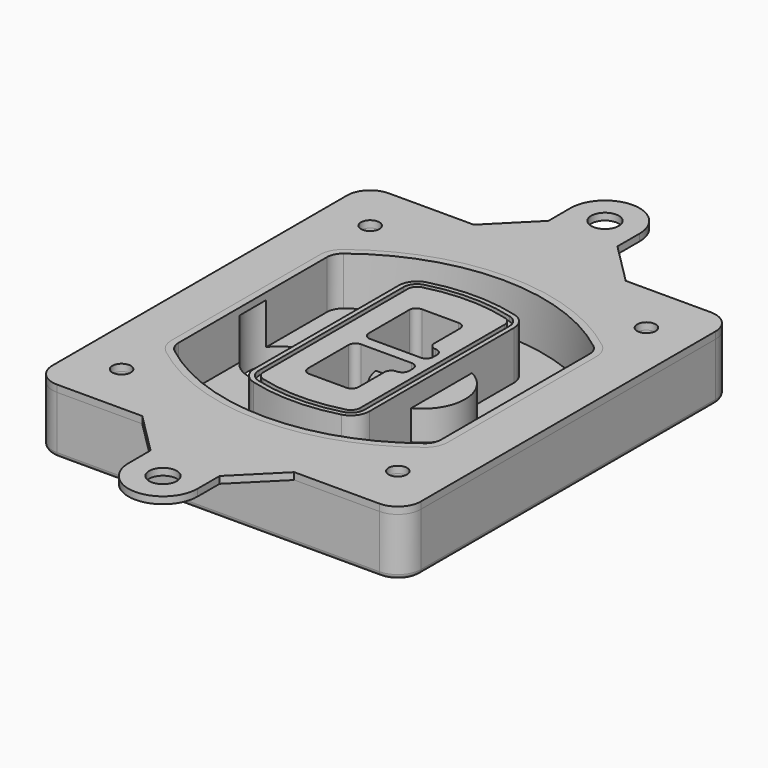
from build123d import *

# Parameters (mm, degrees)
F0_R      = 4
F1_DEPTH  = 25
F2_DEPTH  = 3
F3_DEPTH  = 18
F5_DEPTH  = 21
F6_DEPTH  = 2
F8_DEPTH  = 20
F9_DEPTH  = 16
F10_DEPTH = 25
F7_R      = 6
F7_R_2    = 4
F11_DEPTH = 6
F12_R     = 2
F13_R     = 4
F13_R_2   = 6
F14_DEPTH = 3


with BuildPart() as f1:
    # F0 (on Top) → F1 (new body)
    with BuildSketch(Plane.XY):
        with BuildLine():
            ThreePointArc((-80, -80), (-77.0710678119, -87.0710678119), (-70, -90))
            Line((-70, -90), (70, -90))
            ThreePointArc((70, -90), (77.0710678119, -87.0710678119), (80, -80))
            Line((80, -80), (80, 80))
            ThreePointArc((80, 80), (77.0710678119, 87.0710678119), (70, 90))
            Line((70, 90), (-70, 90))
            ThreePointArc((-70, 90), (-77.0710678119, 87.0710678119), (-80, 80))
            Line((-80, 80), (-80, -80))
        make_face()
        with Locations((-60, -67.5)):
            Circle(F0_R, mode=Mode.SUBTRACT)
        with Locations((60, -67.5)):
            Circle(F0_R, mode=Mode.SUBTRACT)
        with BuildLine():
            ThreePointArc((-64, 40.2934422872), (-62.5820384798, 46.4328484224), (-58.6153846154, 51.3286200352))
            ThreePointArc((-58.6153846154, 51.3286200352), (0, 71.5), (58.6153846154, 51.3286200352))
            ThreePointArc((58.6153846154, 51.3286200352), (62.5820384798, 46.4328484224), (64, 40.2934422872))
            Line((64, 40.2934422872), (64, -40.2934422872))
            ThreePointArc((64, -40.2934422872), (62.5820384798, -46.4328484224), (58.6153846154, -51.3286200352))
            ThreePointArc((58.6153846154, -51.3286200352), (0, -71.5), (-58.6153846154, -51.3286200352))
            ThreePointArc((-58.6153846154, -51.3286200352), (-62.5820384798, -46.4328484224), (-64, -40.2934422872))
            Line((-64, -40.2934422872), (-64, 40.2934422872))
        make_face(mode=Mode.SUBTRACT)
        with Locations((-60, 67.5)):
            Circle(F0_R, mode=Mode.SUBTRACT)
        with Locations((60, 67.5)):
            Circle(F0_R, mode=Mode.SUBTRACT)
        with BuildLine():
            ThreePointArc((58.6153846154, 51.3286200352), (0, 71.5), (-58.6153846154, 51.3286200352))
            ThreePointArc((-58.6153846154, 51.3286200352), (-62.5820384798, 46.4328484224), (-64, 40.2934422872))
            Line((-64, 40.2934422872), (-64, -40.2934422872))
            ThreePointArc((-64, -40.2934422872), (-62.5820384798, -46.4328484224), (-58.6153846154, -51.3286200352))
            ThreePointArc((-58.6153846154, -51.3286200352), (0, -71.5), (58.6153846154, -51.3286200352))
            ThreePointArc((58.6153846154, -51.3286200352), (62.5820384798, -46.4328484224), (64, -40.2934422872))
            Line((64, -40.2934422872), (64, 40.2934422872))
            ThreePointArc((64, 40.2934422872), (62.5820384798, 46.4328484224), (58.6153846154, 51.3286200352))
        make_face()
        with BuildLine():
            Line((-60, -40.2934422872), (-60, 40.2934422872))
            ThreePointArc((-60, 40.2934422872), (-58.9871703427, 44.6787323838), (-56.1538461538, 48.1757121072))
            ThreePointArc((-56.1538461538, 48.1757121072), (0, 67.5), (56.1538461538, 48.1757121072))
            ThreePointArc((56.1538461538, 48.1757121072), (58.9871703427, 44.6787323838), (60, 40.2934422872))
            Line((60, 40.2934422872), (60, -40.2934422872))
            ThreePointArc((60, -40.2934422872), (58.9871703427, -44.6787323838), (56.1538461538, -48.1757121072))
            ThreePointArc((56.1538461538, -48.1757121072), (0, -67.5), (-56.1538461538, -48.1757121072))
            ThreePointArc((-56.1538461538, -48.1757121072), (-58.9871703427, -44.6787323838), (-60, -40.2934422872))
        make_face(mode=Mode.SUBTRACT)
        with BuildLine():
            ThreePointArc((-56.1538461538, 48.1757121072), (-58.9871703427, 44.6787323838), (-60, 40.2934422872))
            Line((-60, 40.2934422872), (-60, -40.2934422872))
            ThreePointArc((-60, -40.2934422872), (-58.9871703427, -44.6787323838), (-56.1538461538, -48.1757121072))
            ThreePointArc((-56.1538461538, -48.1757121072), (0, -67.5), (56.1538461538, -48.1757121072))
            ThreePointArc((56.1538461538, -48.1757121072), (58.9871703427, -44.6787323838), (60, -40.2934422872))
            Line((60, -40.2934422872), (60, 40.2934422872))
            ThreePointArc((60, 40.2934422872), (58.9871703427, 44.6787323838), (56.1538461538, 48.1757121072))
            ThreePointArc((56.1538461538, 48.1757121072), (0, 67.5), (-56.1538461538, 48.1757121072))
        make_face()
        with BuildLine():
            ThreePointArc((54.3076923077, 45.8110311612), (56.2910192399, 43.3631453548), (57, 40.2934422872))
            Line((57, 40.2934422872), (57, -40.2934422872))
            ThreePointArc((57, -40.2934422872), (56.2910192399, -43.3631453548), (54.3076923077, -45.8110311612))
            ThreePointArc((54.3076923077, -45.8110311612), (0, -64.5), (-54.3076923077, -45.8110311612))
            ThreePointArc((-54.3076923077, -45.8110311612), (-56.2910192399, -43.3631453548), (-57, -40.2934422872))
            Line((-57, -40.2934422872), (-57, 40.2934422872))
            ThreePointArc((-57, 40.2934422872), (-56.2910192399, 43.3631453548), (-54.3076923077, 45.8110311612))
            ThreePointArc((-54.3076923077, 45.8110311612), (0, 64.5), (54.3076923077, 45.8110311612))
        make_face(mode=Mode.SUBTRACT)
        with BuildLine():
            Line((57, -40.2934422872), (57, 40.2934422872))
            ThreePointArc((57, 40.2934422872), (56.2910192399, 43.3631453548), (54.3076923077, 45.8110311612))
            ThreePointArc((54.3076923077, 45.8110311612), (0, 64.5), (-54.3076923077, 45.8110311612))
            ThreePointArc((-54.3076923077, 45.8110311612), (-56.2910192399, 43.3631453548), (-57, 40.2934422872))
            Line((-57, 40.2934422872), (-57, -40.2934422872))
            ThreePointArc((-57, -40.2934422872), (-56.2910192399, -43.3631453548), (-54.3076923077, -45.8110311612))
            ThreePointArc((-54.3076923077, -45.8110311612), (0, -64.5), (54.3076923077, -45.8110311612))
            ThreePointArc((54.3076923077, -45.8110311612), (56.2910192399, -43.3631453548), (57, -40.2934422872))
        make_face()
    extrude(amount=-F1_DEPTH)

    # F0 (on Top) → F2 (join)
    with BuildSketch(Plane.XY):
        with BuildLine():
            ThreePointArc((-56.1538461538, 48.1757121072), (-58.9871703427, 44.6787323838), (-60, 40.2934422872))
            Line((-60, 40.2934422872), (-60, -40.2934422872))
            ThreePointArc((-60, -40.2934422872), (-58.9871703427, -44.6787323838), (-56.1538461538, -48.1757121072))
            ThreePointArc((-56.1538461538, -48.1757121072), (0, -67.5), (56.1538461538, -48.1757121072))
            ThreePointArc((56.1538461538, -48.1757121072), (58.9871703427, -44.6787323838), (60, -40.2934422872))
            Line((60, -40.2934422872), (60, 40.2934422872))
            ThreePointArc((60, 40.2934422872), (58.9871703427, 44.6787323838), (56.1538461538, 48.1757121072))
            ThreePointArc((56.1538461538, 48.1757121072), (0, 67.5), (-56.1538461538, 48.1757121072))
        make_face()
        with BuildLine():
            ThreePointArc((54.3076923077, 45.8110311612), (56.2910192399, 43.3631453548), (57, 40.2934422872))
            Line((57, 40.2934422872), (57, -40.2934422872))
            ThreePointArc((57, -40.2934422872), (56.2910192399, -43.3631453548), (54.3076923077, -45.8110311612))
            ThreePointArc((54.3076923077, -45.8110311612), (0, -64.5), (-54.3076923077, -45.8110311612))
            ThreePointArc((-54.3076923077, -45.8110311612), (-56.2910192399, -43.3631453548), (-57, -40.2934422872))
            Line((-57, -40.2934422872), (-57, 40.2934422872))
            ThreePointArc((-57, 40.2934422872), (-56.2910192399, 43.3631453548), (-54.3076923077, 45.8110311612))
            ThreePointArc((-54.3076923077, 45.8110311612), (0, 64.5), (54.3076923077, 45.8110311612))
        make_face(mode=Mode.SUBTRACT)
    extrude(amount=F2_DEPTH)

    # F0 (on Top) → F3 (cut)
    with BuildSketch(Plane.XY):
        with BuildLine():
            Line((57, -40.2934422872), (57, 40.2934422872))
            ThreePointArc((57, 40.2934422872), (56.2910192399, 43.3631453548), (54.3076923077, 45.8110311612))
            ThreePointArc((54.3076923077, 45.8110311612), (0, 64.5), (-54.3076923077, 45.8110311612))
            ThreePointArc((-54.3076923077, 45.8110311612), (-56.2910192399, 43.3631453548), (-57, 40.2934422872))
            Line((-57, 40.2934422872), (-57, -40.2934422872))
            ThreePointArc((-57, -40.2934422872), (-56.2910192399, -43.3631453548), (-54.3076923077, -45.8110311612))
            ThreePointArc((-54.3076923077, -45.8110311612), (0, -64.5), (54.3076923077, -45.8110311612))
            ThreePointArc((54.3076923077, -45.8110311612), (56.2910192399, -43.3631453548), (57, -40.2934422872))
        make_face()
    extrude(amount=-F3_DEPTH, mode=Mode.SUBTRACT)

    # F4 (on face) → F5 (join, through all)
    with BuildSketch(Plane.XY.offset(3)):
        with BuildLine():
            ThreePointArc((-25, -39.2465276821), (-23.3511545998, -44.1109737193), (-19.0842911877, -46.9702398883))
            ThreePointArc((-19.0842911877, -46.9702398883), (0, -49.5), (19.0842911877, -46.9702398883))
            ThreePointArc((19.0842911877, -46.9702398883), (23.3511545998, -44.1109737193), (25, -39.2465276821))
            Line((25, -39.2465276821), (25, 39.2465276821))
            ThreePointArc((25, 39.2465276821), (23.3511545998, 44.1109737193), (19.0842911877, 46.9702398883))
            ThreePointArc((19.0842911877, 46.9702398883), (0, 49.5), (-19.0842911877, 46.9702398883))
            ThreePointArc((-19.0842911877, 46.9702398883), (-23.3511545998, 44.1109737193), (-25, 39.2465276821))
            Line((-25, 39.2465276821), (-25, -39.2465276821))
        make_face()
        with BuildLine():
            ThreePointArc((18.5632183908, 45.0393118368), (21.7633659499, 42.89486221), (23, 39.2465276821))
            Line((23, 39.2465276821), (23, -39.2465276821))
            ThreePointArc((23, -39.2465276821), (21.7633659499, -42.89486221), (18.5632183908, -45.0393118368))
            ThreePointArc((18.5632183908, -45.0393118368), (0, -47.5), (-18.5632183908, -45.0393118368))
            ThreePointArc((-18.5632183908, -45.0393118368), (-21.7633659499, -42.89486221), (-23, -39.2465276821))
            Line((-23, -39.2465276821), (-23, 39.2465276821))
            ThreePointArc((-23, 39.2465276821), (-21.7633659499, 42.89486221), (-18.5632183908, 45.0393118368))
            ThreePointArc((-18.5632183908, 45.0393118368), (0, 47.5), (18.5632183908, 45.0393118368))
        make_face(mode=Mode.SUBTRACT)
        with BuildLine():
            Line((23, -39.2465276821), (23, 39.2465276821))
            ThreePointArc((23, 39.2465276821), (21.7633659499, 42.89486221), (18.5632183908, 45.0393118368))
            ThreePointArc((18.5632183908, 45.0393118368), (0, 47.5), (-18.5632183908, 45.0393118368))
            ThreePointArc((-18.5632183908, 45.0393118368), (-21.7633659499, 42.89486221), (-23, 39.2465276821))
            Line((-23, 39.2465276821), (-23, -39.2465276821))
            ThreePointArc((-23, -39.2465276821), (-21.7633659499, -42.89486221), (-18.5632183908, -45.0393118368))
            ThreePointArc((-18.5632183908, -45.0393118368), (0, -47.5), (18.5632183908, -45.0393118368))
            ThreePointArc((18.5632183908, -45.0393118368), (21.7633659499, -42.89486221), (23, -39.2465276821))
        make_face()
        with BuildLine():
            ThreePointArc((18.0421455939, 43.1083837852), (20.1755772999, 41.6787507007), (21, 39.2465276821))
            Line((21, 39.2465276821), (21, -39.2465276821))
            ThreePointArc((21, -39.2465276821), (20.1755772999, -41.6787507007), (18.0421455939, -43.1083837852))
            ThreePointArc((18.0421455939, -43.1083837852), (0, -45.5), (-18.0421455939, -43.1083837852))
            ThreePointArc((-18.0421455939, -43.1083837852), (-20.1755772999, -41.6787507007), (-21, -39.2465276821))
            Line((-21, -39.2465276821), (-21, 39.2465276821))
            ThreePointArc((-21, 39.2465276821), (-20.1755772999, 41.6787507007), (-18.0421455939, 43.1083837852))
            ThreePointArc((-18.0421455939, 43.1083837852), (0, 45.5), (18.0421455939, 43.1083837852))
        make_face(mode=Mode.SUBTRACT)
        with BuildLine():
            Line((21, -39.2465276821), (21, 39.2465276821))
            ThreePointArc((21, 39.2465276821), (20.1755772999, 41.6787507007), (18.0421455939, 43.1083837852))
            ThreePointArc((18.0421455939, 43.1083837852), (0, 45.5), (-18.0421455939, 43.1083837852))
            ThreePointArc((-18.0421455939, 43.1083837852), (-20.1755772999, 41.6787507007), (-21, 39.2465276821))
            Line((-21, 39.2465276821), (-21, -39.2465276821))
            ThreePointArc((-21, -39.2465276821), (-20.1755772999, -41.6787507007), (-18.0421455939, -43.1083837852))
            ThreePointArc((-18.0421455939, -43.1083837852), (0, -45.5), (18.0421455939, -43.1083837852))
            ThreePointArc((18.0421455939, -43.1083837852), (20.1755772999, -41.6787507007), (21, -39.2465276821))
        make_face()
        with BuildLine():
            Line((-8, -2.5), (14, -2.5))
            ThreePointArc((14, -2.5), (16.1213203436, -3.3786796564), (17, -5.5))
            Line((17, -5.5), (17, -7.5))
            ThreePointArc((17, -7.5), (16.1213203436, -9.6213203436), (14, -10.5))
            ThreePointArc((14, -10.5), (11.8786796564, -11.3786796564), (11, -13.5))
            Line((11, -13.5), (11, -27.5))
            ThreePointArc((11, -27.5), (10.1213203436, -29.6213203436), (8, -30.5))
            Line((8, -30.5), (-8, -30.5))
            ThreePointArc((-8, -30.5), (-10.1213203436, -29.6213203436), (-11, -27.5))
            Line((-11, -27.5), (-11, -5.5))
            ThreePointArc((-11, -5.5), (-10.1213203436, -3.3786796564), (-8, -2.5))
        make_face(mode=Mode.SUBTRACT)
        with BuildLine():
            ThreePointArc((-8, 2.5), (-10.1213203436, 3.3786796564), (-11, 5.5))
            Line((-11, 5.5), (-11, 27.5))
            ThreePointArc((-11, 27.5), (-10.1213203436, 29.6213203436), (-8, 30.5))
            Line((-8, 30.5), (8, 30.5))
            ThreePointArc((8, 30.5), (10.1213203436, 29.6213203436), (11, 27.5))
            Line((11, 27.5), (11, 13.5))
            ThreePointArc((11, 13.5), (11.8786796564, 11.3786796564), (14, 10.5))
            ThreePointArc((14, 10.5), (16.1213203436, 9.6213203436), (17, 7.5))
            Line((17, 7.5), (17, 5.5))
            ThreePointArc((17, 5.5), (16.1213203436, 3.3786796564), (14, 2.5))
            Line((14, 2.5), (-8, 2.5))
        make_face(mode=Mode.SUBTRACT)
    extrude(amount=-F5_DEPTH)

    # F4 (on face) → F6 (cut)
    with BuildSketch(Plane.XY.offset(3)):
        with BuildLine():
            Line((23, -39.2465276821), (23, 39.2465276821))
            ThreePointArc((23, 39.2465276821), (21.7633659499, 42.89486221), (18.5632183908, 45.0393118368))
            ThreePointArc((18.5632183908, 45.0393118368), (0, 47.5), (-18.5632183908, 45.0393118368))
            ThreePointArc((-18.5632183908, 45.0393118368), (-21.7633659499, 42.89486221), (-23, 39.2465276821))
            Line((-23, 39.2465276821), (-23, -39.2465276821))
            ThreePointArc((-23, -39.2465276821), (-21.7633659499, -42.89486221), (-18.5632183908, -45.0393118368))
            ThreePointArc((-18.5632183908, -45.0393118368), (0, -47.5), (18.5632183908, -45.0393118368))
            ThreePointArc((18.5632183908, -45.0393118368), (21.7633659499, -42.89486221), (23, -39.2465276821))
        make_face()
        with BuildLine():
            ThreePointArc((18.0421455939, 43.1083837852), (20.1755772999, 41.6787507007), (21, 39.2465276821))
            Line((21, 39.2465276821), (21, -39.2465276821))
            ThreePointArc((21, -39.2465276821), (20.1755772999, -41.6787507007), (18.0421455939, -43.1083837852))
            ThreePointArc((18.0421455939, -43.1083837852), (0, -45.5), (-18.0421455939, -43.1083837852))
            ThreePointArc((-18.0421455939, -43.1083837852), (-20.1755772999, -41.6787507007), (-21, -39.2465276821))
            Line((-21, -39.2465276821), (-21, 39.2465276821))
            ThreePointArc((-21, 39.2465276821), (-20.1755772999, 41.6787507007), (-18.0421455939, 43.1083837852))
            ThreePointArc((-18.0421455939, 43.1083837852), (0, 45.5), (18.0421455939, 43.1083837852))
        make_face(mode=Mode.SUBTRACT)
    extrude(amount=-F6_DEPTH, mode=Mode.SUBTRACT)

    # F7 (on face) → F8 (join)
    with BuildSketch(Plane(origin=(0, 0, -25), x_dir=(1, 0, 0), z_dir=(0, 0, -1))):
        with BuildLine():
            ThreePointArc((3.28842436, 0), (16.7567035675, 13.4682792075), (30.224982775, 0))
            Line((30.224982775, 0), (35.224982775, 0))
            ThreePointArc((35.224982775, 0), (16.7567035675, 18.4682792075), (-1.71157564, 0))
            Line((-1.71157564, 0), (3.28842436, 0))
        make_face()
        with BuildLine():
            Line((3.28842436, 0), (30.224982775, 0))
            ThreePointArc((30.224982775, 0), (16.7567035675, 13.4682792075), (3.28842436, 0))
        make_face()
        with BuildLine():
            ThreePointArc((3.28842436, 0), (16.7567035675, -13.4682792075), (30.224982775, 0))
            Line((30.224982775, 0), (3.28842436, 0))
        make_face()
        with BuildLine():
            Line((35.224982775, 0), (30.224982775, 0))
            ThreePointArc((30.224982775, 0), (16.7567035675, -13.4682792075), (3.28842436, 0))
            Line((3.28842436, 0), (-1.71157564, 0))
            ThreePointArc((-1.71157564, 0), (16.7567035675, -18.4682792075), (35.224982775, 0))
        make_face()
    extrude(amount=-F8_DEPTH)

    # F7 (on face) → F9 (cut)
    with BuildSketch(Plane(origin=(0, 0, -25), x_dir=(1, 0, 0), z_dir=(0, 0, -1))):
        with BuildLine():
            Line((3.28842436, 0), (30.224982775, 0))
            ThreePointArc((30.224982775, 0), (16.7567035675, 13.4682792075), (3.28842436, 0))
        make_face()
        with BuildLine():
            ThreePointArc((3.28842436, 0), (16.7567035675, -13.4682792075), (30.224982775, 0))
            Line((30.224982775, 0), (3.28842436, 0))
        make_face()
    extrude(amount=-F9_DEPTH, mode=Mode.SUBTRACT)

    # F7 (on face) → F10 (cut)
    with BuildSketch(Plane(origin=(0, 0, -25), x_dir=(1, 0, 0), z_dir=(0, 0, -1))):
        with BuildLine():
            Line((-59.0318229325, 0), (-32.0952645175, 0))
            ThreePointArc((-32.0952645175, 0), (-45.563543725, 13.4682792075), (-59.0318229325, 0))
        make_face()
        with BuildLine():
            ThreePointArc((-59.0318229325, 0), (-45.563543725, -13.4682792075), (-32.0952645175, 0))
            Line((-32.0952645175, 0), (-59.0318229325, 0))
        make_face()
    extrude(amount=-F10_DEPTH, mode=Mode.SUBTRACT)

    # F7 (on face) → F11 (cut)
    with BuildSketch(Plane(origin=(0, 0, -25), x_dir=(1, 0, 0), z_dir=(0, 0, -1))):
        with Locations((60, -67.5)):
            Circle(F7_R)
        with Locations((60, -67.5)):
            Circle(F7_R_2, mode=Mode.SUBTRACT)
        with Locations((60, -67.5)):
            Circle(F7_R)
        with Locations((60, -67.5)):
            Circle(F7_R_2, mode=Mode.SUBTRACT)
        with Locations((-60, -67.5)):
            Circle(F7_R)
        with Locations((-60, -67.5)):
            Circle(F7_R_2, mode=Mode.SUBTRACT)
        with Locations((-60, -67.5)):
            Circle(F7_R)
        with Locations((-60, -67.5)):
            Circle(F7_R_2, mode=Mode.SUBTRACT)
        with Locations((-60, 67.5)):
            Circle(F7_R)
        with Locations((-60, 67.5)):
            Circle(F7_R_2, mode=Mode.SUBTRACT)
        with Locations((-60, 67.5)):
            Circle(F7_R)
        with Locations((-60, 67.5)):
            Circle(F7_R_2, mode=Mode.SUBTRACT)
        with Locations((60, 67.5)):
            Circle(F7_R)
        with Locations((60, 67.5)):
            Circle(F7_R_2, mode=Mode.SUBTRACT)
        with Locations((60, 67.5)):
            Circle(F7_R)
        with Locations((60, 67.5)):
            Circle(F7_R_2, mode=Mode.SUBTRACT)
    extrude(amount=-F11_DEPTH, mode=Mode.SUBTRACT)

    # F12
    f12_edges = [f1.edges().sort_by_distance(p)[0] for p in [
        (0, -90, -25),
    ]]
    fillet(f12_edges, radius=F12_R)


with BuildPart() as f14:
    # F13 (on Top) → F14 (new body, through all)
    with BuildSketch(Plane.XY):
        with BuildLine():
            Line((-33, 90), (-70, 90))
            ThreePointArc((-70, 90), (-77.0710678119, 87.0710678119), (-80, 80))
            Line((-80, 80), (-80, -80))
            ThreePointArc((-80, -80), (-77.0710678119, -87.0710678119), (-70, -90))
            Line((-70, -90), (-33, -90))
            Line((-33, -90), (33, -90))
            Line((33, -90), (70, -90))
            ThreePointArc((70, -90), (77.0710678119, -87.0710678119), (80, -80))
            Line((80, -80), (80, 80))
            ThreePointArc((80, 80), (77.0710678119, 87.0710678119), (70, 90))
            Line((70, 90), (33, 90))
            Line((33, 90), (-33, 90))
        make_face()
        with Locations((-60, -67.5)):
            Circle(F13_R, mode=Mode.SUBTRACT)
        with Locations((60, -67.5)):
            Circle(F13_R, mode=Mode.SUBTRACT)
        with Locations((-60, 67.5)):
            Circle(F13_R, mode=Mode.SUBTRACT)
        with BuildLine():
            ThreePointArc((-56.1538461538, 48.1757121072), (0, 67.5), (56.1538461538, 48.1757121072))
            ThreePointArc((56.1538461538, 48.1757121072), (58.9871703427, 44.6787323838), (60, 40.2934422872))
            Line((60, 40.2934422872), (60, -40.2934422872))
            ThreePointArc((60, -40.2934422872), (58.9871703427, -44.6787323838), (56.1538461538, -48.1757121072))
            ThreePointArc((56.1538461538, -48.1757121072), (0, -67.5), (-56.1538461538, -48.1757121072))
            ThreePointArc((-56.1538461538, -48.1757121072), (-58.9871703427, -44.6787323838), (-60, -40.2934422872))
            Line((-60, -40.2934422872), (-60, 40.2934422872))
            ThreePointArc((-60, 40.2934422872), (-58.9871703427, 44.6787323838), (-56.1538461538, 48.1757121072))
        make_face(mode=Mode.SUBTRACT)
        with Locations((60, 67.5)):
            Circle(F13_R, mode=Mode.SUBTRACT)
        with BuildLine():
            Line((-15, 108), (-33, 90))
            Line((-33, 90), (33, 90))
            Line((33, 90), (15, 108))
            Line((15, 108), (15, 120))
            ThreePointArc((15, 120), (0, 135), (-15, 120))
            Line((-15, 120), (-15, 108))
        make_face()
        with Locations((0, 120)):
            Circle(F13_R_2, mode=Mode.SUBTRACT)
        with BuildLine():
            Line((33, -90), (-33, -90))
            Line((-33, -90), (-15, -108))
            Line((-15, -108), (-15, -120))
            ThreePointArc((-15, -120), (0, -135), (15, -120))
            Line((15, -120), (15, -108))
            Line((15, -108), (33, -90))
        make_face()
        with Locations((0, -120)):
            Circle(F13_R_2, mode=Mode.SUBTRACT)
    extrude(amount=F14_DEPTH)


solid = Compound([f1.part, f14.part])
